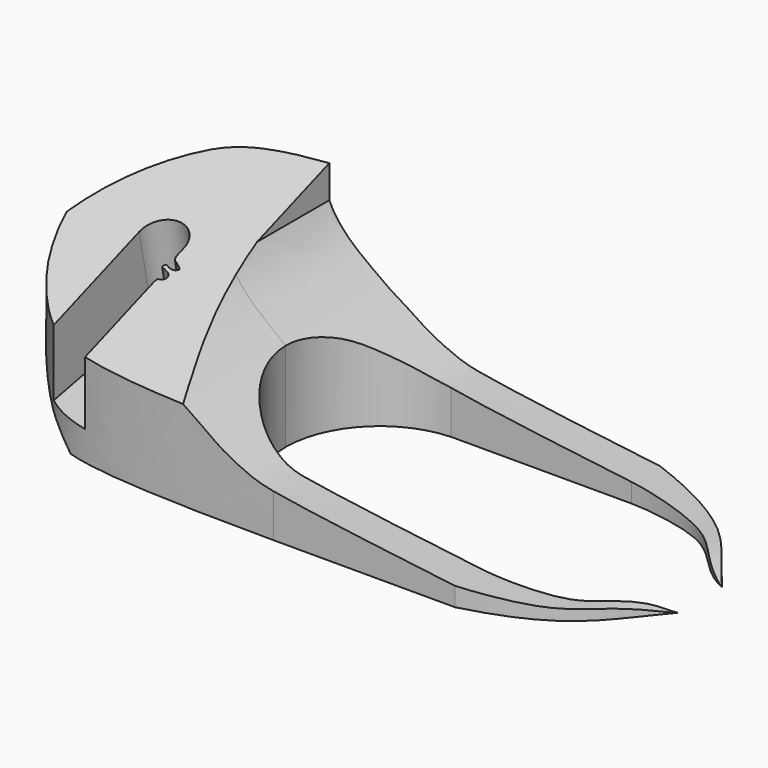
from build123d import *

# Parameters (mm, degrees)
PAD010_DEPTH    = 30
PAD011_DEPTH    = 30
POCKET019_DEPTH = 20
POCKET020_DEPTH = 21.5
POCKET021_DEPTH = 16
POCKET022_DEPTH = 56


with BuildPart() as part:
    # Sketch030 → Pad010 (new body)
    with BuildSketch(Plane.XY):
        with BuildLine():
            Line((-9.58395, 13.5), (16.310229, 13.5))
            add(Edge.make_bspline(
                [(16.310229, 13.5), (18.310228, 13.501031), (30.261282, 12.300449), (32.780455, 5.78943), (36.883, 3.99632)],
                knots=[0, 0, 0, 0, 0.5, 1, 1, 1, 1], degree=3))
            add(Edge.make_bspline(
                [(16.418763, 18.5), (30.0728, 14.9629), (31.610432, 10.059164), (36.883, 3.99632)],
                knots=[0, 0, 0, 0, 1, 1, 1, 1], degree=3))
            Line((16.418763, 18.5), (-9.475416, 18.5))
            add(Edge.make_bspline(
                [(-9.475416, 18.5), (-37.3482, 18.4799), (-45.9357, 14.9697), (-52.392, 5.81805), (-53.9591, 0)],
                knots=[0, 0, 0, 0, 0.5, 1, 1, 1, 1], degree=3))
            Line((-53.9591, 0), (-22.519398, 0))
            ThreePointArc((-22.519398, 0), (-18.763562, 9.34848), (-9.58395, 13.5))
        make_face()
    extrude(amount=PAD010_DEPTH)

    # MirroredSketch002 → Pad011 (join)
    with BuildSketch(Plane.XY):
        with BuildLine():
            ThreePointArc((-22.509759, 0), (-18.649206, -9.4526), (-9.275089, -13.5))
            Line((-9.275089, -13.5), (16.779349, -13.5))
            add(Edge.make_bspline(
                [(16.779349, -13.5), (18.779349, -13.501566), (30.261282, -12.300449), (32.780455, -5.78943), (36.883, -3.99632)],
                knots=[0, 0, 0, 0, 0.5, 1, 1, 1, 1], degree=3))
            add(Edge.make_bspline(
                [(16.579022, -18.5), (30.0728, -14.9629), (31.610432, -10.059164), (36.883, -3.99632)],
                knots=[0, 0, 0, 0, 1, 1, 1, 1], degree=3))
            Line((16.579022, -18.5), (-9.475416, -18.5))
            add(Edge.make_bspline(
                [(-9.475416, -18.5), (-37.3482, -18.4799), (-45.9357, -14.9697), (-52.392, -5.81805), (-53.9591, 0)],
                knots=[0, 0, 0, 0, 0.5, 1, 1, 1, 1], degree=3))
            Line((-53.9591, 0), (-22.509759, 0))
        make_face()
    extrude(amount=PAD011_DEPTH)

    # Sketch031 → Pocket019 (cut, symmetric)
    with BuildSketch(Plane.XZ):
        with BuildLine():
            add(Edge.make_bspline(
                [(-24.537006, -5.962733), (-33.96579, -2.450956), (-37.868225, -2.280037), (-40.937222, 0.666897), (-44.086807, 3.297989), (-45.974102, 4.707775), (-47.974335, 7.132409), (-49.297935, 8.240911), (-50.281666, 9.563862), (-51.122517, 10.871743), (-51.959799, 11.78326), (-52.801899, 13.00826), (-53.108199, 14.38636), (-54.026699, 16.472837)],
                knots=[0, 0, 0, 0, 0.090909, 0.181818, 0.272727, 0.363636, 0.454545, 0.545455, 0.636364, 0.727273, 0.818182, 0.909091, 1, 1, 1, 1], degree=3))
            Line((-54.026699, 16.472837), (-67.115806, 16.580737))
            Line((-67.115806, 16.580737), (-67.115806, -12.040442))
            Line((-67.115806, -12.040442), (-30.519064, -12.040442))
            Line((-30.519064, -12.040442), (-24.537006, -5.962733))
        make_face()
    extrude(amount=POCKET019_DEPTH, both=True, mode=Mode.SUBTRACT)

    # Sketch032 → Pocket020 (cut, symmetric)
    with BuildSketch(Plane.XZ):
        with BuildLine():
            add(Edge.make_bspline(
                [(37.444431, 0), (36.529029, -0.034935), (34.789729, 0.788918), (31.677429, 1.567008), (28.075538, 1.449184), (22.701629, 2.017733), (12.650452, 3.118566), (-9.404895, 5.984315), (-12.561653, 6.893496), (-16.923237, 8.943251), (-19.787928, 11.091768), (-22.070726, 12.43459), (-23.861156, 13.822172), (-29.26718, 18.092406), (-30.571993, 21.281189)],
                knots=[0, 0, 0, 0, 0.083333, 0.166667, 0.25, 0.333333, 0.416667, 0.5, 0.583333, 0.666667, 0.75, 0.833333, 0.916667, 1, 1, 1, 1], degree=3))
            Line((-30.571993, 21.281189), (-30.571993, 45.329951))
            Line((-30.571993, 45.329951), (49.525864, 45.329951))
            Line((49.525864, 45.329951), (49.525864, 21.336774))
            Line((49.525864, 21.336774), (49.525864, 7.285458))
            Line((49.525864, 7.285458), (37.444431, 0))
        make_face()
    extrude(amount=POCKET020_DEPTH, both=True, mode=Mode.SUBTRACT)

    # Sketch033 → Pocket021 (cut)
    with BuildSketch(Plane(origin=(-41, 0, 24), x_dir=(-1, 0, 0), z_dir=(0, -0.198988, 0.980002))):
        with BuildLine():
            Line((-3.186096, 1.22254), (-3.186096, -0.29798))
            ThreePointArc((-3.186096, -0.29798), (0.149152, -3.196522), (3.2, 0))
            Line((3.2, 0), (3.2, 1.520521))
            Line((3.2, 1.520521), (3.2, 20.628364))
            Line((3.2, 20.628364), (-3.3, 20.630588))
            Line((-3.3, 20.630588), (-3.3, 5.856392))
            add(Edge.make_bspline(
                [(-4.775932, 3.087166), (-4.33493, 3.35485), (-4.051164, 3.330951), (-3.7795, 3.305968), (-3.349396, 3.157906), (-3.245846, 3.064339), (-3.061377, 2.994419), (-2.972856, 2.977889), (-2.794626, 2.994684), (-2.646077, 3.432949), (-2.828362, 3.561935), (-3.029694, 3.55577), (-3.205435, 3.624091), (-3.697853, 3.815224), (-4.092663, 4.026405), (-4.257935, 4.333984), (-4.313023, 4.531395), (-4.267117, 4.737976), (-4.262524, 4.884888), (-3.883443, 5.109722), (-3.722657, 5.188738), (-3.612278, 5.191375), (-3.509907, 5.187067), (-3.431781, 5.249228), (-3.310894, 5.441842), (-3.3, 5.856392)],
                knots=[0, 0, 0, 0, 0.043478, 0.086957, 0.130435, 0.173913, 0.217391, 0.26087, 0.304348, 0.347826, 0.391304, 0.434783, 0.478261, 0.521739, 0.565217, 0.608696, 0.652174, 0.695652, 0.73913, 0.782609, 0.826087, 0.869565, 0.913043, 0.956522, 1, 1, 1, 1], degree=3))
            Line((-4.775932, 3.087166), (-4.784031, 3.061035))
            add(Edge.make_bspline(
                [(-3.186096, 1.22254), (-3.244116, 1.846916), (-3.506081, 2.061211), (-3.66875, 2.114041), (-3.847514, 2.215016), (-4.058549, 2.36884), (-4.181769, 2.462694), (-4.470432, 2.580053), (-4.86222, 2.93836), (-4.784031, 3.061035)],
                knots=[0, 0, 0, 0, 0.142857, 0.285714, 0.428571, 0.571429, 0.714286, 0.857143, 1, 1, 1, 1], degree=3))
        make_face()
    extrude(amount=-POCKET021_DEPTH, mode=Mode.SUBTRACT)

    # Sketch034 → Pocket022 (cut)
    with BuildSketch(Plane(origin=(-9, 0, -8), x_dir=(0, 1, 0), z_dir=(1, 0, 0))):
        Polygon((18.651828, 38.940468), (-18.907723, 38.940468), (-18.907723, 20.641185), (18.651828, 34.244968), align=None)
    extrude(amount=-POCKET022_DEPTH, mode=Mode.SUBTRACT)


with BuildPart() as part_1:
    # Body008 placement: moved
    add(part.part.moved(Location((0, 0, 3))))


solid = part_1.part
